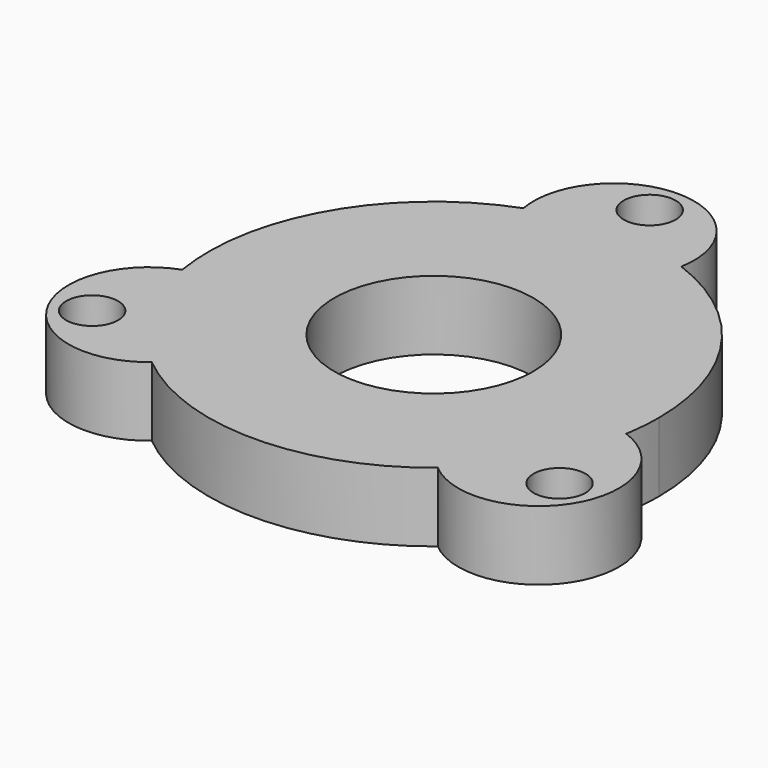
from build123d import *

# Parameters (mm, degrees)
F0_R     = 18.25625
F0_R_2   = 4.7625
F1_DEPTH = 12.7


with BuildPart() as f1:
    # F0 (on Top) → F1 (new body)
    with BuildSketch(Plane.XY):
        with BuildLine():
            ThreePointArc((40.714956, -6.776284), (41.134751, -3.399694), (41.275, 0))
            ThreePointArc((41.275, 0), (33.923892, 23.511596), (14.489044, 38.648328))
            ThreePointArc((14.489044, 38.648328), (0, 41.275), (-14.489044, 38.648328))
            ThreePointArc((-14.489044, 38.648328), (-35.745199, 20.6375), (-40.714956, -6.776284))
            ThreePointArc((-40.714956, -6.776284), (-35.745199, -20.6375), (-26.225912, -31.872044))
            ThreePointArc((-26.225912, -31.872044), (0, -41.275), (26.225912, -31.872044))
            ThreePointArc((26.225912, -31.872044), (35.745199, -20.6375), (40.714956, -6.776284))
        make_face()
        Circle(F0_R, mode=Mode.SUBTRACT)
        with BuildLine():
            ThreePointArc((-26.225912, -31.872044), (-35.745199, -20.6375), (-40.714956, -6.776284))
            ThreePointArc((-40.714956, -6.776284), (-48.497604, -28.000105), (-26.225912, -31.872044))
        make_face()
        with Locations((-42.8625, -24.746676)):
            Circle(F0_R_2, mode=Mode.SUBTRACT)
        with BuildLine():
            ThreePointArc((-14.489044, 38.648328), (0, 41.275), (14.489044, 38.648328))
            ThreePointArc((14.489044, 38.648328), (0, 56.00021), (-14.489044, 38.648328))
        make_face()
        with Locations((0, 49.493352)):
            Circle(F0_R_2, mode=Mode.SUBTRACT)
        with BuildLine():
            ThreePointArc((26.225912, -31.872044), (48.497604, -28.000105), (40.714956, -6.776284))
            ThreePointArc((40.714956, -6.776284), (35.745199, -20.6375), (26.225912, -31.872044))
        make_face()
        with Locations((42.8625, -24.746676)):
            Circle(F0_R_2, mode=Mode.SUBTRACT)
    extrude(amount=F1_DEPTH)


solid = f1.part
